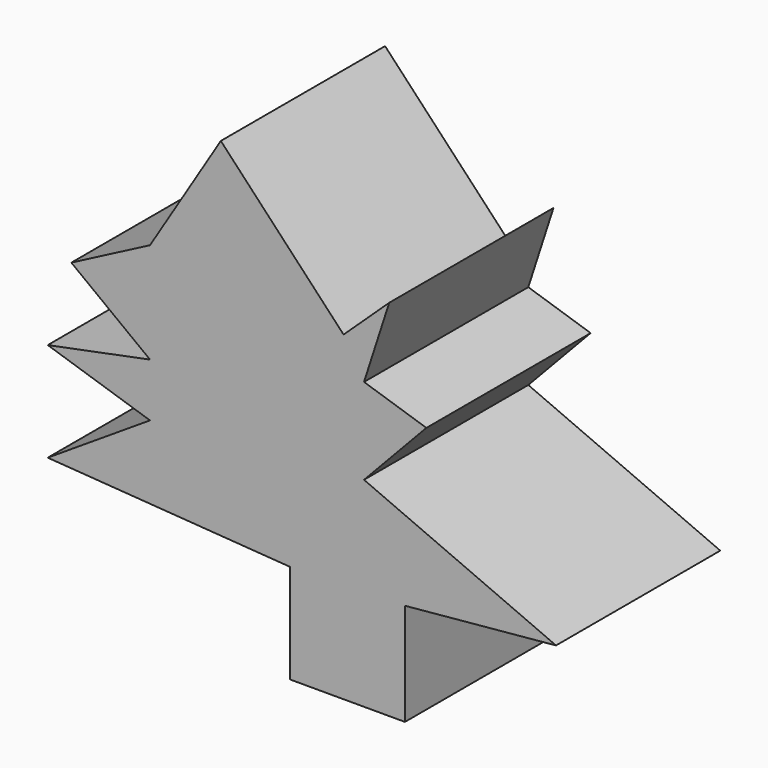
from build123d import *

# Parameters (mm, degrees)
F1_DEPTH = 25.4
F2_DEPTH = 25.4


with BuildPart() as f1:
    # F0 (on Front) → F1 (new body)
    with BuildSketch(Plane.XZ):
        Polygon((3.114745, -14.405694), (-9.149562, -14.405694), (-9.149562, -26.670001), (5.061461, -26.670001), (5.061461, -14.01635), align=None)
    extrude(amount=F1_DEPTH)

    # F0 (on Front) → F2 (join)
    with BuildSketch(Plane.XZ):
        Polygon((3.114745, -14.405694), (-9.149562, -14.405694), (-9.149562, -26.670001), (5.061461, -26.670001), (5.061461, -14.01635), align=None)
        Polygon((-39.128978, -12.264307), (-9.149562, -14.405694), (3.114745, -14.405694), (5.061461, -14.01635), (23.749929, -12.264307), (0, -1.946715), (7.713446, 6.215465), (0, 8.707502), (3.114745, 18.348379), (-2.53073, 13.042993), (-17.71511, 29.200731), (-26.475329, 14.989709), (-36.208905, 9.928249), (-26.475329, 2.53073), (-39.128978, 0), (-26.475329, -4.088102), align=None)
    extrude(amount=F2_DEPTH)


solid = f1.part
